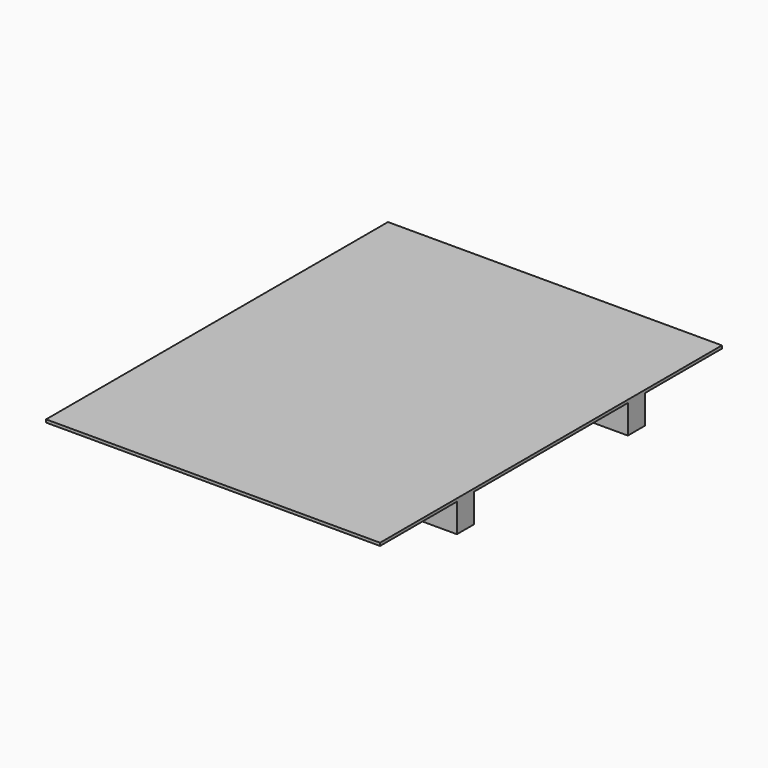
from build123d import *

# Parameters (mm, degrees)
F0_W     = 930
F0_H     = 1190
F1_DEPTH = 8
F2_W     = 930
F2_H     = 60
F3_DEPTH = 80


with BuildPart() as f1:
    # F0 (on Top) → F1 (new body)
    with BuildSketch(Plane.XY):
        with Locations((465, 595)):
            Rectangle(F0_W, F0_H)
    extrude(amount=F1_DEPTH)

    # F2 (on face) → F3 (join)
    with BuildSketch(Plane(origin=(0, 0, 0), x_dir=(1, 0, 0), z_dir=(0, 0, -1))):
        with Locations((465, -297.5)):
            Rectangle(F2_W, F2_H)
        with Locations((465, -892.5)):
            Rectangle(F2_W, F2_H)
    extrude(amount=F3_DEPTH)


solid = f1.part
